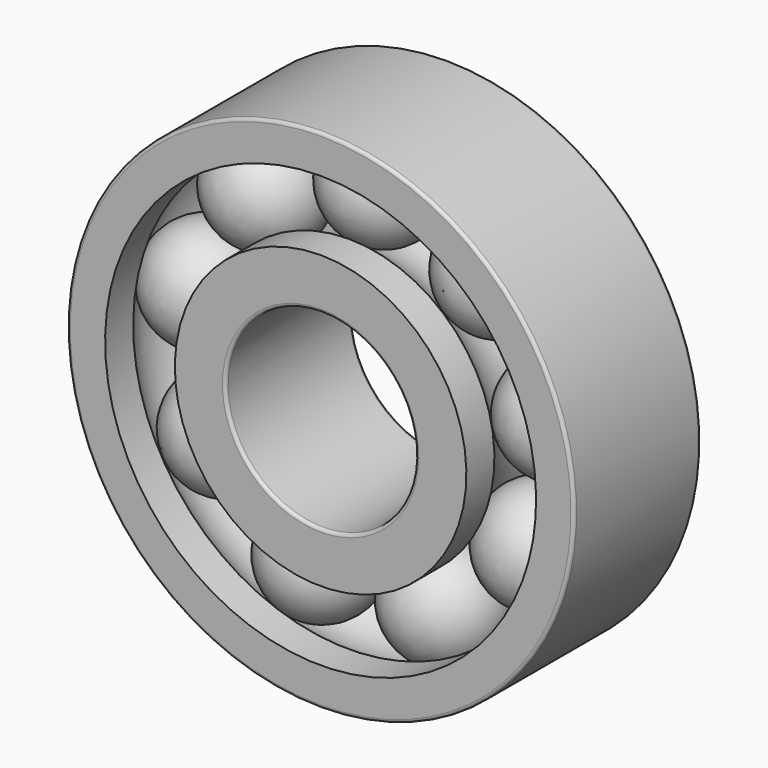
from build123d import *

# Parameters (mm, degrees)
F5_COUNT = 9


with BuildPart() as f1:
    # F0 (on Right) → F1 (revolve)
    with BuildSketch(Plane.YZ):
        with BuildLine():
            ThreePointArc((-2.786126, 13.6), (0, 14.95), (2.786126, 13.6))
            Line((2.786126, 13.6), (5, 13.6))
            Line((5, 13.6), (5, 15.8))
            ThreePointArc((5, 15.8), (4.941421, 15.941421), (4.8, 16))
            Line((4.8, 16), (0, 16))
            Line((0, 16), (-4.8, 16))
            ThreePointArc((-4.8, 16), (-4.941421, 15.941421), (-5, 15.8))
            Line((-5, 15.8), (-5, 13.6))
            Line((-5, 13.6), (-2.786126, 13.6))
        make_face()
        with BuildLine():
            Line((-4.8, 6), (0, 6))
            Line((0, 6), (4.8, 6))
            ThreePointArc((4.8, 6), (4.941421, 6.058579), (5, 6.2))
            Line((5, 6.2), (5, 9.2))
            Line((5, 9.2), (2.786126, 9.2))
            ThreePointArc((2.786126, 9.2), (0, 7.85), (-2.786126, 9.2))
            Line((-2.786126, 9.2), (-5, 9.2))
            Line((-5, 9.2), (-5, 6.2))
            ThreePointArc((-5, 6.2), (-4.941421, 6.058579), (-4.8, 6))
        make_face()
    revolve(axis=Axis((0, 2.321801, 0), (0, 1, 0)))


with BuildPart() as f3:
    # F2 (on Right) → F3 (revolve)
    with BuildSketch(Plane.YZ):
        with BuildLine():
            Line((0, 7.9), (0, 14.9))
            ThreePointArc((0, 14.9), (-3.5, 11.4), (0, 7.9))
        make_face()
    revolve(axis=Axis((0, 0, 11.4), (0, 0, -1)))


with BuildPart() as f5_1:
    # F5: instance of F3
    add(f3.part.rotate(Axis((0, 4.201841, 0), (0, 1, 0)), 1 * 360 / F5_COUNT))


with BuildPart() as f5_2:
    # F5: instance of F3
    add(f3.part.rotate(Axis((0, 4.201841, 0), (0, 1, 0)), 2 * 360 / F5_COUNT))


with BuildPart() as f5_3:
    # F5: instance of F3
    add(f3.part.rotate(Axis((0, 4.201841, 0), (0, 1, 0)), 3 * 360 / F5_COUNT))


with BuildPart() as f5_4:
    # F5: instance of F3
    add(f3.part.rotate(Axis((0, 4.201841, 0), (0, 1, 0)), 4 * 360 / F5_COUNT))


with BuildPart() as f5_5:
    # F5: instance of F3
    add(f3.part.rotate(Axis((0, 4.201841, 0), (0, 1, 0)), 5 * 360 / F5_COUNT))


with BuildPart() as f5_6:
    # F5: instance of F3
    add(f3.part.rotate(Axis((0, 4.201841, 0), (0, 1, 0)), 6 * 360 / F5_COUNT))


with BuildPart() as f5_7:
    # F5: instance of F3
    add(f3.part.rotate(Axis((0, 4.201841, 0), (0, 1, 0)), 7 * 360 / F5_COUNT))


with BuildPart() as f5_8:
    # F5: instance of F3
    add(f3.part.rotate(Axis((0, 4.201841, 0), (0, 1, 0)), 8 * 360 / F5_COUNT))


solid = Compound([f1.part, f3.part, f5_1.part, f5_2.part, f5_3.part, f5_4.part, f5_5.part, f5_6.part, f5_7.part, f5_8.part])
